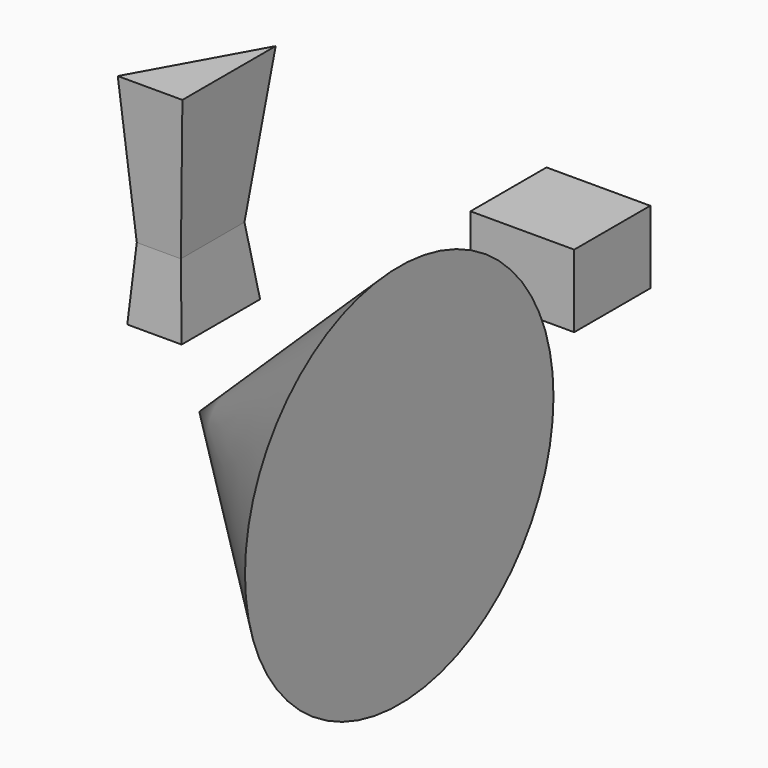
from build123d import *

# Parameters (mm, degrees)
F1_DEPTH      = 50.8
F1_TAPER      = -3
F1_DEPTH_BACK = 25.4
F1_TAPER_BACK = -3
F4_W          = 36.2373590469
F4_H          = 33.1925749779
F6_DEPTH      = 25.4


with BuildPart() as f1:
    # F0 (on Top) → F1 (new body, two sides)
    with BuildSketch(Plane.XY) as f1_sk:
        Polygon((-60.3053607047, 27.7697946876), (-75.7024735212, 0), (-60.3053607047, 0), align=None)
    extrude(amount=F1_DEPTH, taper=F1_TAPER)
    extrude(f1_sk.sketch, amount=-F1_DEPTH_BACK, taper=F1_TAPER_BACK)


with BuildPart() as f3:
    # F2 (on Top) → F3 (revolve)
    with BuildSketch(Plane.XY):
        Polygon((69.8356330395, 0), (0, -67.3455372453), (69.8356330395, -67.3455372453), align=None)
    revolve(axis=Axis((34.9178165197, -67.3455372453, 0), (1, 0, 0)))


with BuildPart() as f6:
    # F4 (on Top) → F6 (new body)
    with BuildSketch(Plane.XY):
        with Locations((32.4351787567, 49.7518032789)):
            Rectangle(F4_W, F4_H)
    extrude(amount=F6_DEPTH)


solid = Compound([f1.part, f3.part, f6.part])
